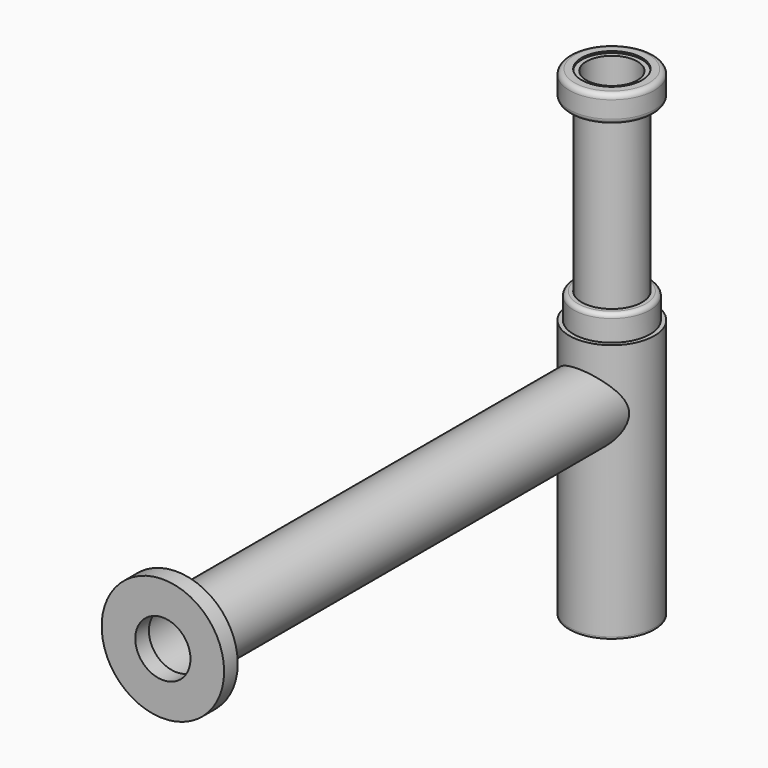
from build123d import *

# Parameters (mm, degrees)
F0_R           = 21
F0_R_2         = 18
F1_DEPTH       = 330
F2_R           = 25
F2_R_2         = 22.5
F3_DEPTH       = 36
F3_DEPTH_BACK  = 115
F4_R           = 22.5
F4_R_2         = 17.7889981526
F5_DEPTH       = 15
F6_R           = 2.5
F7_R           = 25
F8_DEPTH       = 1
F9_R           = 17.7231972021
F9_R_2         = 15
F10_DEPTH      = 165
F11_R          = 25
F11_R_2        = 17.7889981526
F12_DEPTH      = 1
F12_DEPTH_BACK = 15
F13_R          = 3
F15_R          = 36
F15_R_2        = 16.2155162539
F16_DEPTH      = 10


with BuildPart() as f1:
    # F0 (on Front) → F1 (new body)
    with BuildSketch(Plane.XZ):
        Circle(F0_R)
        Circle(F0_R_2, mode=Mode.SUBTRACT)
    extrude(amount=F1_DEPTH)


with BuildPart() as f3:
    # F2 (on Top) → F3 (new body, two sides)
    with BuildSketch(Plane.XY) as f3_sk:
        Circle(F2_R)
        Circle(F2_R_2, mode=Mode.SUBTRACT)
    extrude(amount=F3_DEPTH)
    extrude(f3_sk.sketch, amount=-F3_DEPTH_BACK)

    # F7 (on face) → F8 (join)
    with BuildSketch(Plane(origin=(0, 0, -115), x_dir=(1, 0, 0), z_dir=(0, 0, -1))):
        Circle(F7_R)
    extrude(amount=F8_DEPTH)


with BuildPart() as f5:
    # F4 (on face) → F5 (new body)
    with BuildSketch(Plane.XY.offset(36)):
        Circle(F4_R)
        Circle(F4_R_2, mode=Mode.SUBTRACT)
    extrude(amount=F5_DEPTH)

    # F6
    f6_edges = [f5.edges().sort_by_distance(p)[0] for p in [
        (-22.5, 0, 51),
    ]]
    fillet(f6_edges, radius=F6_R)


with BuildPart() as f10:
    # F9 (on Top) → F10 (new body)
    with BuildSketch(Plane.XY):
        Circle(F9_R)
        Circle(F9_R_2, mode=Mode.SUBTRACT)
    extrude(amount=F10_DEPTH)


with BuildPart() as f12:
    # F11 (on face) → F12 (new body, two sides)
    with BuildSketch(Plane.XY.offset(165)) as f12_sk:
        Circle(F11_R)
        Circle(F11_R_2, mode=Mode.SUBTRACT)
    extrude(amount=F12_DEPTH)
    extrude(f12_sk.sketch, amount=-F12_DEPTH_BACK)

    # F13
    f13_edges = [f12.edges().sort_by_distance(p)[0] for p in [
        (-25, 0, 166),
        (-25, 0, 150),
    ]]
    fillet(f13_edges, radius=F13_R)


with BuildPart() as f16:
    # F15 (on offset) → F16 (new body)
    with BuildSketch(Plane.XZ.offset(320)):
        Circle(F15_R)
        Circle(F15_R_2, mode=Mode.SUBTRACT)
    extrude(amount=F16_DEPTH)


solid = Compound([f1.part, f3.part, f5.part, f10.part, f12.part, f16.part])
